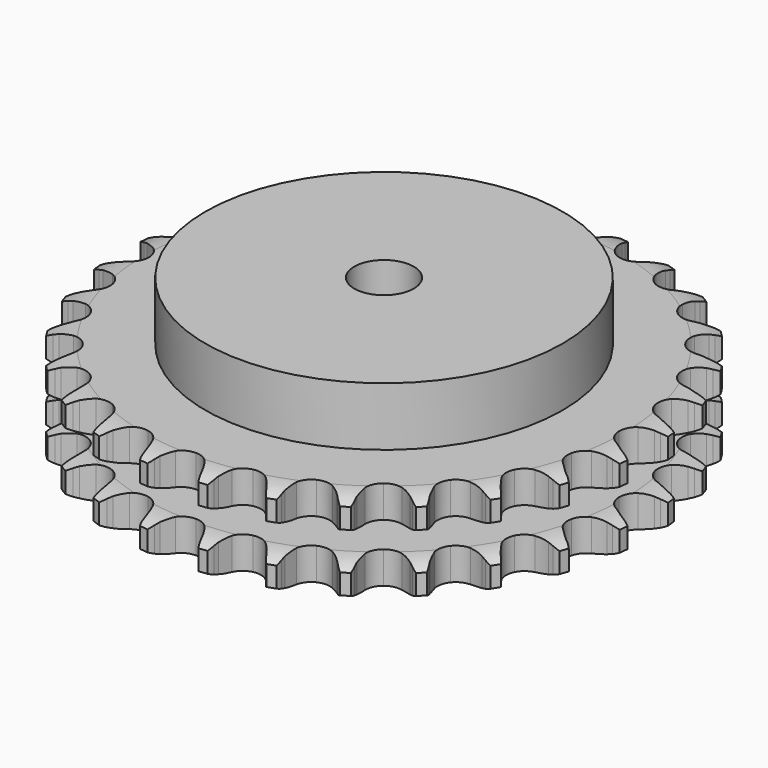
from build123d import *

# Parameters (mm, degrees)
PAD_DEPTH         = 30.3
SKETCH001_R       = 60
PAD001_DEPTH      = 50
SKETCH002_R       = 10
POCKET_DEPTH      = 0.001
POCKET_DEPTH_BACK = 50.001


with BuildPart() as part:
    # Sprocket → Pad (new body)
    with BuildSketch(Plane.XY):
        with BuildLine():
            ThreePointArc((-10.199193, 90.520346), (-8.671084, 88.783435), (-7.589433, 86.738439))
            Line((-7.589433, 86.738439), (-7.001312, 85.217676))
            ThreePointArc((-7.001312, 85.217676), (-6.067169, 83.22737), (-4.865119, 81.386441))
            ThreePointArc((-4.865119, 81.386441), (-2.716457, 79.606204), (0, 78.968351))
            ThreePointArc((0, 78.968351), (2.716457, 79.606204), (4.865119, 81.386441))
            ThreePointArc((4.865119, 81.386441), (6.067169, 83.22737), (7.001312, 85.217676))
            Line((7.001312, 85.217676), (7.589433, 86.738439))
            ThreePointArc((7.589433, 86.738439), (8.671084, 88.783435), (10.199193, 90.520346))
            ThreePointArc((10.199193, 90.520346), (11.302491, 88.486946), (11.901969, 86.252533))
            Line((11.901969, 86.252533), (12.136942, 84.63903))
            ThreePointArc((12.136942, 84.63903), (12.60478, 82.490758), (13.367047, 80.428504))
            ThreePointArc((13.367047, 80.428504), (15.065698, 78.214779), (17.572111, 76.988449))
            ThreePointArc((17.572111, 76.988449), (20.362396, 77.005842), (22.853327, 78.263323))
            Line((22.853327, 78.263323), (25.788492, 81.523153))
            ThreePointArc((25.788492, 81.523153), (26.226886, 82.210835), (26.700268, 82.874917))
            ThreePointArc((26.700268, 82.874917), (28.209855, 84.627951), (30.08615, 85.981278))
            ThreePointArc((30.08615, 85.981278), (30.709312, 83.753353), (30.796556, 81.441564))
            Line((30.796556, 81.441564), (30.6666, 79.816229))
            ThreePointArc((30.6666, 79.816229), (30.644673, 77.617715), (30.928933, 75.437546))
            ThreePointArc((30.928933, 75.437546), (32.092395, 72.901338), (34.263083, 71.148026))
            ThreePointArc((34.263083, 71.148026), (36.98728, 70.544086), (39.695574, 71.215754))
            Line((39.695574, 71.215754), (43.282528, 73.740718))
            ThreePointArc((43.282528, 73.740718), (43.862955, 74.313607), (44.472241, 74.855701))
            ThreePointArc((44.472241, 74.855701), (46.334065, 76.228868), (48.464462, 77.130749))
            ThreePointArc((48.464462, 77.130749), (48.57624, 74.820017), (48.146875, 72.546776))
            Line((48.146875, 72.546776), (47.658506, 70.991109))
            ThreePointArc((47.658506, 70.991109), (47.147913, 68.852596), (46.939913, 66.663834))
            ThreePointArc((46.939913, 66.663834), (47.509845, 63.93232), (49.235961, 61.739943))
            ThreePointArc((49.235961, 61.739943), (51.757468, 60.544954), (54.547319, 60.59713))
            Line((54.547319, 60.59713), (58.606198, 62.260616))
            ThreePointArc((58.606198, 62.260616), (59.299552, 62.689984), (60.014189, 63.082908))
            ThreePointArc((60.014189, 63.082908), (62.134893, 64.007352), (64.412563, 64.412563))
            ThreePointArc((64.412563, 64.412563), (64.007352, 62.134893), (63.082908, 60.014189))
            Line((63.082908, 60.014189), (62.260616, 58.606198))
            ThreePointArc((62.260616, 58.606198), (61.286961, 56.63492), (60.59713, 54.547319))
            ThreePointArc((60.59713, 54.547319), (60.544954, 51.757468), (61.739943, 49.235961))
            ThreePointArc((61.739943, 49.235961), (63.93232, 47.509845), (66.663834, 46.939913))
            Line((66.663834, 46.939913), (70.991109, 47.658506))
            ThreePointArc((70.991109, 47.658506), (71.762622, 47.922823), (72.546776, 48.146875))
            ThreePointArc((72.546776, 48.146875), (74.820017, 48.57624), (77.130749, 48.464462))
            ThreePointArc((77.130749, 48.464462), (76.228868, 46.334065), (74.855701, 44.472241))
            Line((74.855701, 44.472241), (73.740718, 43.282528))
            ThreePointArc((73.740718, 43.282528), (72.352824, 41.577333), (71.215754, 39.695574))
            ThreePointArc((71.215754, 39.695574), (70.544086, 36.98728), (71.148026, 34.263083))
            ThreePointArc((71.148026, 34.263083), (72.901338, 32.092395), (75.437546, 30.928933))
            Line((75.437546, 30.928933), (79.816229, 30.6666))
            ThreePointArc((79.816229, 30.6666), (80.627215, 30.752612), (81.441564, 30.796556))
            ThreePointArc((81.441564, 30.796556), (83.753353, 30.709312), (85.981278, 30.08615))
            ThreePointArc((85.981278, 30.08615), (84.627951, 28.209855), (82.874917, 26.700268))
            Line((82.874917, 26.700268), (81.523153, 25.788492))
            ThreePointArc((81.523153, 25.788492), (79.790614, 24.434884), (78.263323, 22.853327))
            ThreePointArc((78.263323, 22.853327), (77.005842, 20.362396), (76.988449, 17.572111))
            ThreePointArc((76.988449, 17.572111), (78.214779, 15.065698), (80.428504, 13.367047))
            Line((80.428504, 13.367047), (84.63903, 12.136942))
            ThreePointArc((84.63903, 12.136942), (85.448822, 12.040337), (86.252533, 11.901969))
            ThreePointArc((86.252533, 11.901969), (88.486946, 11.302491), (90.520346, 10.199193))
            ThreePointArc((90.520346, 10.199193), (88.783435, 8.671084), (86.738439, 7.589433))
            Line((86.738439, 7.589433), (85.217676, 7.001312))
            ThreePointArc((85.217676, 7.001312), (83.22737, 6.067169), (81.386441, 4.865119))
            ThreePointArc((81.386441, 4.865119), (79.606204, 2.716457), (78.968351, 0))
            ThreePointArc((78.968351, 0), (79.606204, -2.716457), (81.386441, -4.865119))
            Line((81.386441, -4.865119), (85.217676, -7.001312))
            ThreePointArc((85.217676, -7.001312), (85.985669, -7.275691), (86.738439, -7.589433))
            ThreePointArc((86.738439, -7.589433), (88.783435, -8.671084), (90.520346, -10.199193))
            ThreePointArc((90.520346, -10.199193), (88.486946, -11.302491), (86.252533, -11.901969))
            Line((86.252533, -11.901969), (84.63903, -12.136942))
            ThreePointArc((84.63903, -12.136942), (82.490758, -12.60478), (80.428504, -13.367047))
            ThreePointArc((80.428504, -13.367047), (78.214779, -15.065698), (76.988449, -17.572111))
            ThreePointArc((76.988449, -17.572111), (77.005842, -20.362396), (78.263323, -22.853327))
            Line((78.263323, -22.853327), (81.523153, -25.788492))
            ThreePointArc((81.523153, -25.788492), (82.210835, -26.226886), (82.874917, -26.700268))
            ThreePointArc((82.874917, -26.700268), (84.627951, -28.209855), (85.981278, -30.08615))
            ThreePointArc((85.981278, -30.08615), (83.753353, -30.709312), (81.441564, -30.796556))
            Line((81.441564, -30.796556), (79.816229, -30.6666))
            ThreePointArc((79.816229, -30.6666), (77.617715, -30.644673), (75.437546, -30.928933))
            ThreePointArc((75.437546, -30.928933), (72.901338, -32.092395), (71.148026, -34.263083))
            ThreePointArc((71.148026, -34.263083), (70.544086, -36.98728), (71.215754, -39.695574))
            Line((71.215754, -39.695574), (73.740718, -43.282528))
            ThreePointArc((73.740718, -43.282528), (74.313607, -43.862955), (74.855701, -44.472241))
            ThreePointArc((74.855701, -44.472241), (76.228868, -46.334065), (77.130749, -48.464462))
            ThreePointArc((77.130749, -48.464462), (74.820017, -48.57624), (72.546776, -48.146875))
            Line((72.546776, -48.146875), (70.991109, -47.658506))
            ThreePointArc((70.991109, -47.658506), (68.852596, -47.147913), (66.663834, -46.939913))
            ThreePointArc((66.663834, -46.939913), (63.93232, -47.509845), (61.739943, -49.235961))
            ThreePointArc((61.739943, -49.235961), (60.544954, -51.757468), (60.59713, -54.547319))
            Line((60.59713, -54.547319), (62.260616, -58.606198))
            ThreePointArc((62.260616, -58.606198), (62.689984, -59.299552), (63.082908, -60.014189))
            ThreePointArc((63.082908, -60.014189), (64.007352, -62.134893), (64.412563, -64.412563))
            ThreePointArc((64.412563, -64.412563), (62.134893, -64.007352), (60.014189, -63.082908))
            Line((60.014189, -63.082908), (58.606198, -62.260616))
            ThreePointArc((58.606198, -62.260616), (56.63492, -61.286961), (54.547319, -60.59713))
            ThreePointArc((54.547319, -60.59713), (51.757468, -60.544954), (49.235961, -61.739943))
            ThreePointArc((49.235961, -61.739943), (47.509845, -63.93232), (46.939913, -66.663834))
            Line((46.939913, -66.663834), (47.658506, -70.991109))
            ThreePointArc((47.658506, -70.991109), (47.922823, -71.762622), (48.146875, -72.546776))
            ThreePointArc((48.146875, -72.546776), (48.57624, -74.820017), (48.464462, -77.130749))
            ThreePointArc((48.464462, -77.130749), (46.334065, -76.228868), (44.472241, -74.855701))
            Line((44.472241, -74.855701), (43.282528, -73.740718))
            ThreePointArc((43.282528, -73.740718), (41.577333, -72.352824), (39.695574, -71.215754))
            ThreePointArc((39.695574, -71.215754), (36.98728, -70.544086), (34.263083, -71.148026))
            ThreePointArc((34.263083, -71.148026), (32.092395, -72.901338), (30.928933, -75.437546))
            Line((30.928933, -75.437546), (30.6666, -79.816229))
            ThreePointArc((30.6666, -79.816229), (30.752612, -80.627215), (30.796556, -81.441564))
            ThreePointArc((30.796556, -81.441564), (30.709312, -83.753353), (30.08615, -85.981278))
            ThreePointArc((30.08615, -85.981278), (28.209855, -84.627951), (26.700268, -82.874917))
            Line((26.700268, -82.874917), (25.788492, -81.523153))
            ThreePointArc((25.788492, -81.523153), (24.434884, -79.790614), (22.853327, -78.263323))
            ThreePointArc((22.853327, -78.263323), (20.362396, -77.005842), (17.572111, -76.988449))
            ThreePointArc((17.572111, -76.988449), (15.065698, -78.214779), (13.367047, -80.428504))
            Line((13.367047, -80.428504), (12.136942, -84.63903))
            ThreePointArc((12.136942, -84.63903), (12.040337, -85.448822), (11.901969, -86.252533))
            ThreePointArc((11.901969, -86.252533), (11.302491, -88.486946), (10.199193, -90.520346))
            ThreePointArc((10.199193, -90.520346), (8.671084, -88.783435), (7.589433, -86.738439))
            Line((7.589433, -86.738439), (7.001312, -85.217676))
            ThreePointArc((7.001312, -85.217676), (6.067169, -83.22737), (4.865119, -81.386441))
            ThreePointArc((4.865119, -81.386441), (2.716457, -79.606204), (0, -78.968351))
            ThreePointArc((0, -78.968351), (-2.716457, -79.606204), (-4.865119, -81.386441))
            Line((-4.865119, -81.386441), (-7.001312, -85.217676))
            ThreePointArc((-7.001312, -85.217676), (-7.275691, -85.985669), (-7.589433, -86.738439))
            ThreePointArc((-7.589433, -86.738439), (-8.671084, -88.783435), (-10.199193, -90.520346))
            ThreePointArc((-10.199193, -90.520346), (-11.302491, -88.486946), (-11.901969, -86.252533))
            Line((-11.901969, -86.252533), (-12.136942, -84.63903))
            ThreePointArc((-12.136942, -84.63903), (-12.60478, -82.490758), (-13.367047, -80.428504))
            ThreePointArc((-13.367047, -80.428504), (-15.065698, -78.214779), (-17.572111, -76.988449))
            ThreePointArc((-17.572111, -76.988449), (-20.362396, -77.005842), (-22.853327, -78.263323))
            Line((-22.853327, -78.263323), (-25.788492, -81.523153))
            ThreePointArc((-25.788492, -81.523153), (-26.226886, -82.210835), (-26.700268, -82.874917))
            ThreePointArc((-26.700268, -82.874917), (-28.209855, -84.627951), (-30.08615, -85.981278))
            ThreePointArc((-30.08615, -85.981278), (-30.709312, -83.753353), (-30.796556, -81.441564))
            Line((-30.796556, -81.441564), (-30.6666, -79.816229))
            ThreePointArc((-30.6666, -79.816229), (-30.644673, -77.617715), (-30.928933, -75.437546))
            ThreePointArc((-30.928933, -75.437546), (-32.092395, -72.901338), (-34.263083, -71.148026))
            ThreePointArc((-34.263083, -71.148026), (-36.98728, -70.544086), (-39.695574, -71.215754))
            Line((-39.695574, -71.215754), (-43.282528, -73.740718))
            ThreePointArc((-43.282528, -73.740718), (-43.862955, -74.313607), (-44.472241, -74.855701))
            ThreePointArc((-44.472241, -74.855701), (-46.334065, -76.228868), (-48.464462, -77.130749))
            ThreePointArc((-48.464462, -77.130749), (-48.57624, -74.820017), (-48.146875, -72.546776))
            Line((-48.146875, -72.546776), (-47.658506, -70.991109))
            ThreePointArc((-47.658506, -70.991109), (-47.147913, -68.852596), (-46.939913, -66.663834))
            ThreePointArc((-46.939913, -66.663834), (-47.509845, -63.93232), (-49.235961, -61.739943))
            ThreePointArc((-49.235961, -61.739943), (-51.757468, -60.544954), (-54.547319, -60.59713))
            Line((-54.547319, -60.59713), (-58.606198, -62.260616))
            ThreePointArc((-58.606198, -62.260616), (-59.299552, -62.689984), (-60.014189, -63.082908))
            ThreePointArc((-60.014189, -63.082908), (-62.134893, -64.007352), (-64.412563, -64.412563))
            ThreePointArc((-64.412563, -64.412563), (-64.007352, -62.134893), (-63.082908, -60.014189))
            Line((-63.082908, -60.014189), (-62.260616, -58.606198))
            ThreePointArc((-62.260616, -58.606198), (-61.286961, -56.63492), (-60.59713, -54.547319))
            ThreePointArc((-60.59713, -54.547319), (-60.544954, -51.757468), (-61.739943, -49.235961))
            ThreePointArc((-61.739943, -49.235961), (-63.93232, -47.509845), (-66.663834, -46.939913))
            Line((-66.663834, -46.939913), (-70.991109, -47.658506))
            ThreePointArc((-70.991109, -47.658506), (-71.762622, -47.922823), (-72.546776, -48.146875))
            ThreePointArc((-72.546776, -48.146875), (-74.820017, -48.57624), (-77.130749, -48.464462))
            ThreePointArc((-77.130749, -48.464462), (-76.228868, -46.334065), (-74.855701, -44.472241))
            Line((-74.855701, -44.472241), (-73.740718, -43.282528))
            ThreePointArc((-73.740718, -43.282528), (-72.352824, -41.577333), (-71.215754, -39.695574))
            ThreePointArc((-71.215754, -39.695574), (-70.544086, -36.98728), (-71.148026, -34.263083))
            ThreePointArc((-71.148026, -34.263083), (-72.901338, -32.092395), (-75.437546, -30.928933))
            Line((-75.437546, -30.928933), (-79.816229, -30.6666))
            ThreePointArc((-79.816229, -30.6666), (-80.627215, -30.752612), (-81.441564, -30.796556))
            ThreePointArc((-81.441564, -30.796556), (-83.753353, -30.709312), (-85.981278, -30.08615))
            ThreePointArc((-85.981278, -30.08615), (-84.627951, -28.209855), (-82.874917, -26.700268))
            Line((-82.874917, -26.700268), (-81.523153, -25.788492))
            ThreePointArc((-81.523153, -25.788492), (-79.790614, -24.434884), (-78.263323, -22.853327))
            ThreePointArc((-78.263323, -22.853327), (-77.005842, -20.362396), (-76.988449, -17.572111))
            ThreePointArc((-76.988449, -17.572111), (-78.214779, -15.065698), (-80.428504, -13.367047))
            Line((-80.428504, -13.367047), (-84.63903, -12.136942))
            ThreePointArc((-84.63903, -12.136942), (-85.448822, -12.040337), (-86.252533, -11.901969))
            ThreePointArc((-86.252533, -11.901969), (-88.486946, -11.302491), (-90.520346, -10.199193))
            ThreePointArc((-90.520346, -10.199193), (-88.783435, -8.671084), (-86.738439, -7.589433))
            Line((-86.738439, -7.589433), (-85.217676, -7.001312))
            ThreePointArc((-85.217676, -7.001312), (-83.22737, -6.067169), (-81.386441, -4.865119))
            ThreePointArc((-81.386441, -4.865119), (-79.606204, -2.716457), (-78.968351, 0))
            ThreePointArc((-78.968351, 0), (-79.606204, 2.716457), (-81.386441, 4.865119))
            Line((-81.386441, 4.865119), (-85.217676, 7.001312))
            ThreePointArc((-85.217676, 7.001312), (-85.985669, 7.275691), (-86.738439, 7.589433))
            ThreePointArc((-86.738439, 7.589433), (-88.783435, 8.671084), (-90.520346, 10.199193))
            ThreePointArc((-90.520346, 10.199193), (-88.486946, 11.302491), (-86.252533, 11.901969))
            Line((-86.252533, 11.901969), (-84.63903, 12.136942))
            ThreePointArc((-84.63903, 12.136942), (-82.490758, 12.60478), (-80.428504, 13.367047))
            ThreePointArc((-80.428504, 13.367047), (-78.214779, 15.065698), (-76.988449, 17.572111))
            ThreePointArc((-76.988449, 17.572111), (-77.005842, 20.362396), (-78.263323, 22.853327))
            Line((-78.263323, 22.853327), (-81.523153, 25.788492))
            ThreePointArc((-81.523153, 25.788492), (-82.210835, 26.226886), (-82.874917, 26.700268))
            ThreePointArc((-82.874917, 26.700268), (-84.627951, 28.209855), (-85.981278, 30.08615))
            ThreePointArc((-85.981278, 30.08615), (-83.753353, 30.709312), (-81.441564, 30.796556))
            Line((-81.441564, 30.796556), (-79.816229, 30.6666))
            ThreePointArc((-79.816229, 30.6666), (-77.617715, 30.644673), (-75.437546, 30.928933))
            ThreePointArc((-75.437546, 30.928933), (-72.901338, 32.092395), (-71.148026, 34.263083))
            ThreePointArc((-71.148026, 34.263083), (-70.544086, 36.98728), (-71.215754, 39.695574))
            Line((-71.215754, 39.695574), (-73.740718, 43.282528))
            ThreePointArc((-73.740718, 43.282528), (-74.313607, 43.862955), (-74.855701, 44.472241))
            ThreePointArc((-74.855701, 44.472241), (-76.228868, 46.334065), (-77.130749, 48.464462))
            ThreePointArc((-77.130749, 48.464462), (-74.820017, 48.57624), (-72.546776, 48.146875))
            Line((-72.546776, 48.146875), (-70.991109, 47.658506))
            ThreePointArc((-70.991109, 47.658506), (-68.852596, 47.147913), (-66.663834, 46.939913))
            ThreePointArc((-66.663834, 46.939913), (-63.93232, 47.509845), (-61.739943, 49.235961))
            ThreePointArc((-61.739943, 49.235961), (-60.544954, 51.757468), (-60.59713, 54.547319))
            Line((-60.59713, 54.547319), (-62.260616, 58.606198))
            ThreePointArc((-62.260616, 58.606198), (-62.689984, 59.299552), (-63.082908, 60.014189))
            ThreePointArc((-63.082908, 60.014189), (-64.007352, 62.134893), (-64.412563, 64.412563))
            ThreePointArc((-64.412563, 64.412563), (-62.134893, 64.007352), (-60.014189, 63.082908))
            Line((-60.014189, 63.082908), (-58.606198, 62.260616))
            ThreePointArc((-58.606198, 62.260616), (-56.63492, 61.286961), (-54.547319, 60.59713))
            ThreePointArc((-54.547319, 60.59713), (-51.757468, 60.544954), (-49.235961, 61.739943))
            ThreePointArc((-49.235961, 61.739943), (-47.509845, 63.93232), (-46.939913, 66.663834))
            Line((-46.939913, 66.663834), (-47.658506, 70.991109))
            ThreePointArc((-47.658506, 70.991109), (-47.922823, 71.762622), (-48.146875, 72.546776))
            ThreePointArc((-48.146875, 72.546776), (-48.57624, 74.820017), (-48.464462, 77.130749))
            ThreePointArc((-48.464462, 77.130749), (-46.334065, 76.228868), (-44.472241, 74.855701))
            Line((-44.472241, 74.855701), (-43.282528, 73.740718))
            ThreePointArc((-43.282528, 73.740718), (-41.577333, 72.352824), (-39.695574, 71.215754))
            ThreePointArc((-39.695574, 71.215754), (-36.98728, 70.544086), (-34.263083, 71.148026))
            ThreePointArc((-34.263083, 71.148026), (-32.092395, 72.901338), (-30.928933, 75.437546))
            Line((-30.928933, 75.437546), (-30.6666, 79.816229))
            ThreePointArc((-30.6666, 79.816229), (-30.752612, 80.627215), (-30.796556, 81.441564))
            ThreePointArc((-30.796556, 81.441564), (-30.709312, 83.753353), (-30.08615, 85.981278))
            ThreePointArc((-30.08615, 85.981278), (-28.209855, 84.627951), (-26.700268, 82.874917))
            Line((-26.700268, 82.874917), (-25.788492, 81.523153))
            ThreePointArc((-25.788492, 81.523153), (-24.434884, 79.790614), (-22.853327, 78.263323))
            ThreePointArc((-22.853327, 78.263323), (-20.362396, 77.005842), (-17.572111, 76.988449))
            ThreePointArc((-17.572111, 76.988449), (-15.065698, 78.214779), (-13.367047, 80.428504))
            Line((-13.367047, 80.428504), (-12.136942, 84.63903))
            ThreePointArc((-12.136942, 84.63903), (-12.040337, 85.448822), (-11.901969, 86.252533))
            ThreePointArc((-11.901969, 86.252533), (-11.302491, 88.486946), (-10.199193, 90.520346))
        make_face()
    extrude(amount=PAD_DEPTH)

    # Sketch → Groove (revolve, cut)
    with BuildSketch(Plane.XZ):
        with BuildLine():
            ThreePointArc((80.514719, 0), (84.873618, 0.506758), (89, 2))
            Line((89, 2), (89, 8.8))
            ThreePointArc((89, 8.8), (84.873618, 10.293242), (80.514719, 10.8))
            Line((60, 10.8), (80.514719, 10.8))
            Line((60, 19.5), (60, 10.8))
            Line((80.514719, 19.5), (60, 19.5))
            ThreePointArc((80.514719, 19.5), (84.873618, 20.006758), (89, 21.5))
            Line((89, 21.5), (89, 28.3))
            ThreePointArc((89, 28.3), (84.873618, 29.793242), (80.514719, 30.3))
            Line((80.514719, 30.3), (99, 30.3))
            Line((99, 30.3), (99, 0))
            Line((80.514719, 0), (99, 0))
        make_face()
    revolve(axis=Axis((0, 0, 0), (0, 0, 1)), mode=Mode.SUBTRACT)

    # Sketch001 → Pad001 (join)
    with BuildSketch(Plane.XY):
        Circle(SKETCH001_R)
    extrude(amount=PAD001_DEPTH)

    # Sketch002 → Pocket (cut, two sides)
    with BuildSketch(Plane.XY) as pocket_sk:
        Circle(SKETCH002_R)
    extrude(amount=-POCKET_DEPTH, mode=Mode.SUBTRACT)
    extrude(pocket_sk.sketch, amount=POCKET_DEPTH_BACK, mode=Mode.SUBTRACT)


solid = part.part
